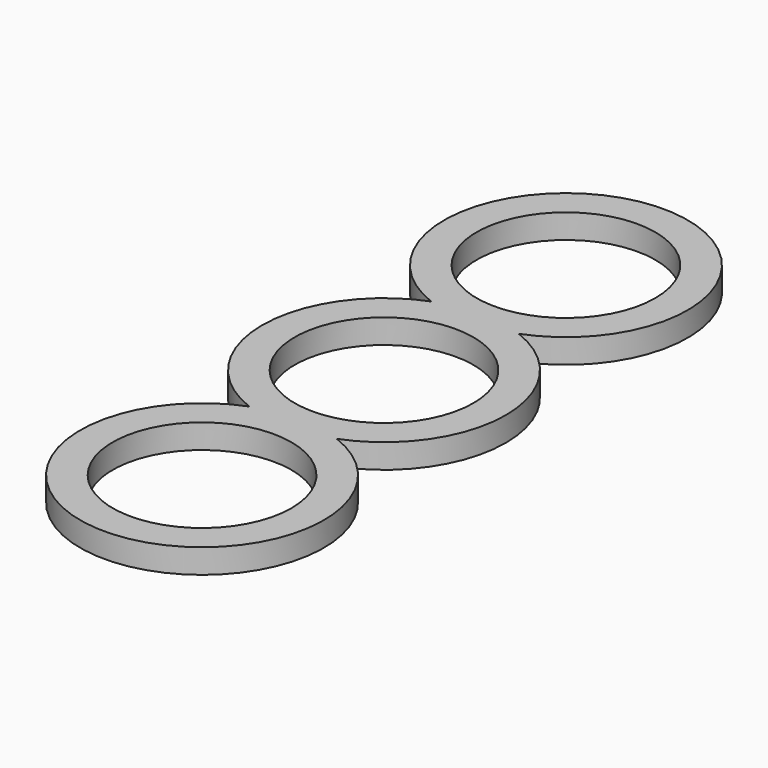
from build123d import *

# Parameters (mm, degrees)
F0_R     = 11
F1_DEPTH = 3


with BuildPart() as f1:
    # F0 (on Top) → F1 (new body)
    with BuildSketch(Plane.XY):
        with BuildLine():
            ThreePointArc((5.385165, 14), (0, 43), (-5.385165, 14))
            ThreePointArc((-5.385165, 14), (-15, 0), (-5.385165, -14))
            ThreePointArc((-5.385165, -14), (0, -43), (5.385165, -14))
            ThreePointArc((5.385165, -14), (15, 0), (5.385165, 14))
        make_face()
        with Locations((0, -28)):
            Circle(F0_R, mode=Mode.SUBTRACT)
        Circle(F0_R, mode=Mode.SUBTRACT)
        with Locations((0, 28)):
            Circle(F0_R, mode=Mode.SUBTRACT)
    extrude(amount=F1_DEPTH)


solid = f1.part
